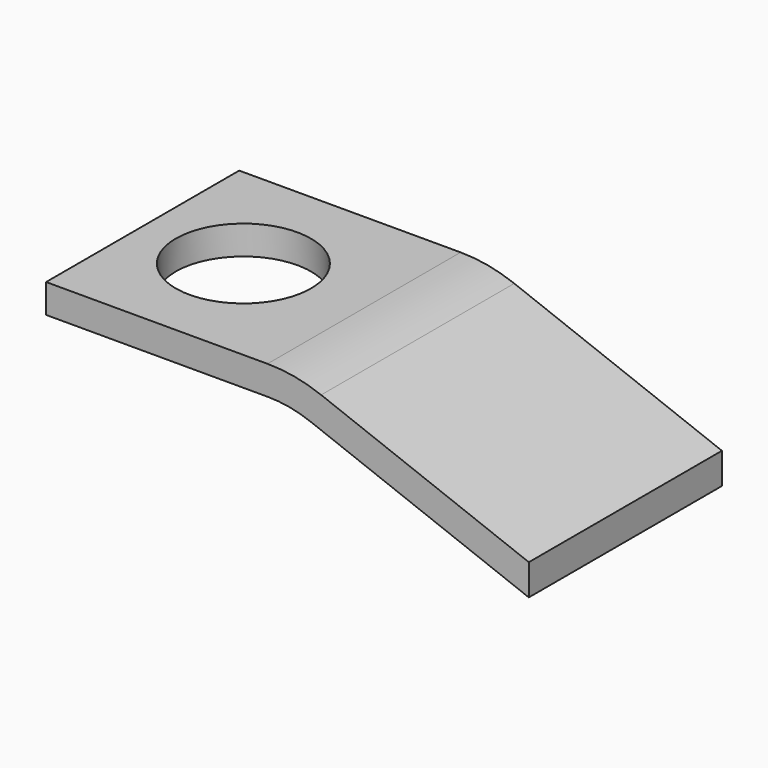
from build123d import *

# Parameters (mm, degrees)
F1_DEPTH = 3.175
F3_D     = 1.778


with BuildPart() as f1:
    # F0 (on Front) → F1 (new body)
    with BuildSketch(Plane.XZ):
        with BuildLine():
            Line((0, 1.5875), (0, 1.2065))
            Line((0, 1.2065), (2.9127343096, 1.2065))
            ThreePointArc((2.9127343096, 1.2065), (3.2020332063, 1.1799171658), (3.4816434295, 1.1010589271))
            Line((3.4816434295, 1.1010589271), (6.35, 0))
            Line((6.35, 0), (6.35, 0.4081062426))
            Line((6.35, 0.4081062426), (3.6181816183, 1.4567530696))
            ThreePointArc((3.6181816183, 1.4567530696), (3.2714649415, 1.5545372855), (2.9127343096, 1.5875))
            Line((2.9127343096, 1.5875), (0, 1.5875))
        make_face()
    extrude(amount=-F1_DEPTH)

    # F3 (through all)
    with Locations(Plane.XY.offset(1.5875)):
        with Locations((1.3252343096, 1.5875)):
            Hole(F3_D / 2)


solid = f1.part
